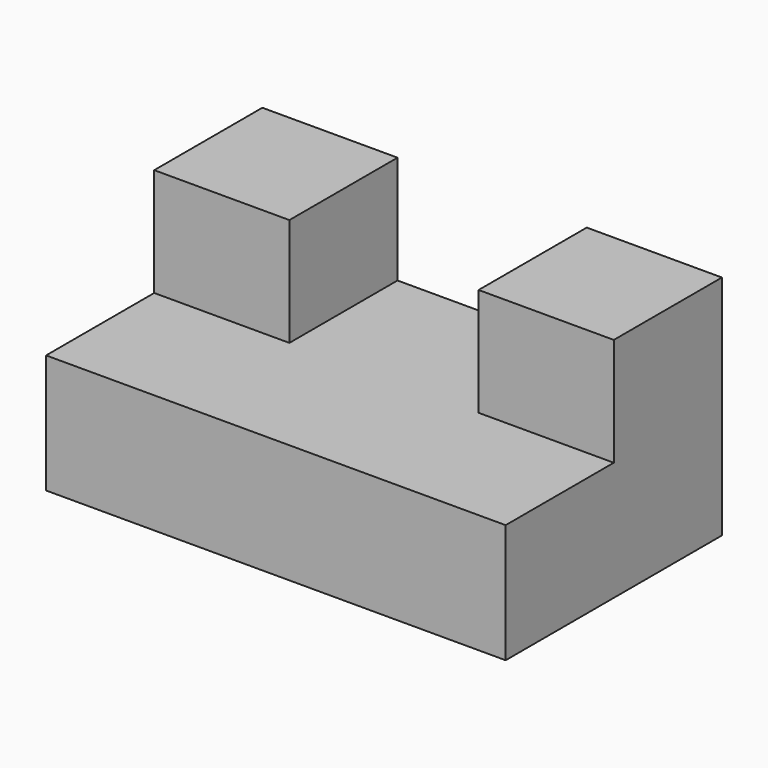
from build123d import *

# Parameters (mm, degrees)
F0_W     = 85
F0_H     = 22
F1_DEPTH = 50
F2_W     = 25
F2_H     = 25
F3_DEPTH = 20


with BuildPart() as f1:
    # F0 (on Front) → F1 (new body)
    with BuildSketch(Plane.XZ):
        with Locations((42.5, 11)):
            Rectangle(F0_W, F0_H)
    extrude(amount=F1_DEPTH)

    # F2 (on face) → F3 (join)
    with BuildSketch(Plane.XY.offset(22)):
        with Locations((12.5, -12.5)):
            Rectangle(F2_W, F2_H)
        with Locations((72.5, -12.5)):
            Rectangle(F2_W, F2_H)
    extrude(amount=F3_DEPTH)


solid = f1.part
